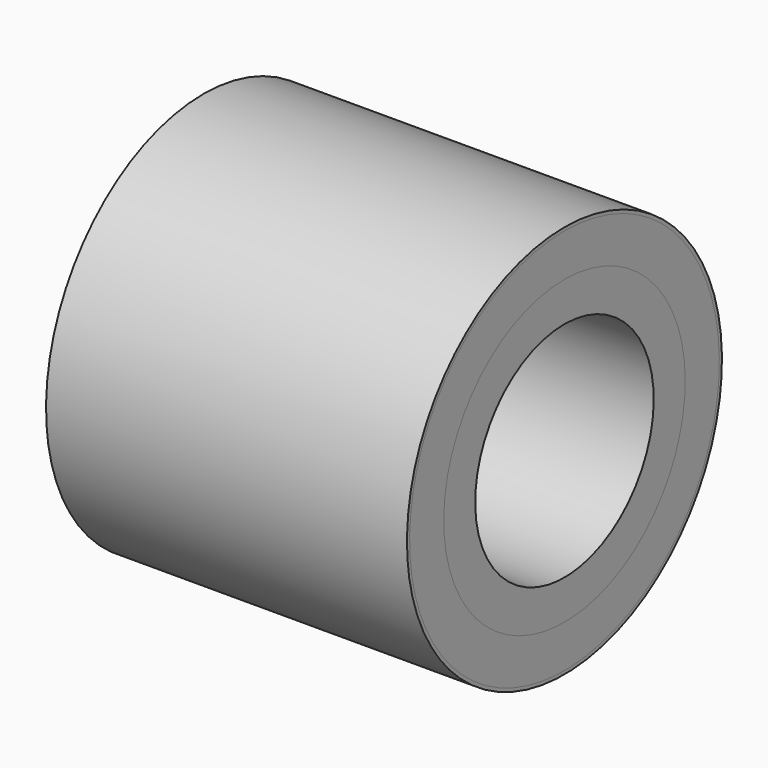
from build123d import *

# Parameters (mm, degrees)
F0_W        = 698.5
F0_H        = 76.2
F0_H_2      = 82.55
F0_H_3      = 6.35
F1_FACE_R   = 292.1
F1_FACE_R_2 = 215.9
F4_DEPTH    = 6.35


with BuildPart() as f1:
    # F0 (on Front) → F1 (revolve)
    with BuildSketch(Plane.XZ):
        with Locations((0, 254)):
            Rectangle(F0_W, F0_H)
    revolve(axis=Axis((0, 0, 0), (1, 0, 0)))

    # F1_face (on face) → F4 (cut)
    with BuildSketch(Plane(origin=(-349.25, 0, 0), x_dir=(0, -1, 0), z_dir=(-1, 0, 0))):
        Circle(F1_FACE_R)
        Circle(F1_FACE_R_2, mode=Mode.SUBTRACT)
    extrude(amount=-F4_DEPTH, mode=Mode.SUBTRACT)


with BuildPart() as f2:
    # F0 (on Front) → F2 (revolve)
    with BuildSketch(Plane.XZ):
        with Locations((0, 333.375)):
            Rectangle(F0_W, F0_H_2)
    revolve(axis=Axis((0, 0, 0), (1, 0, 0)))


with BuildPart() as f3:
    # F0 (on Front) → F3 (revolve)
    with BuildSketch(Plane.XZ):
        with Locations((0, 377.825)):
            Rectangle(F0_W, F0_H_3)
    revolve(axis=Axis((0, 0, 0), (1, 0, 0)))


solid = Compound([f1.part, f2.part, f3.part])
